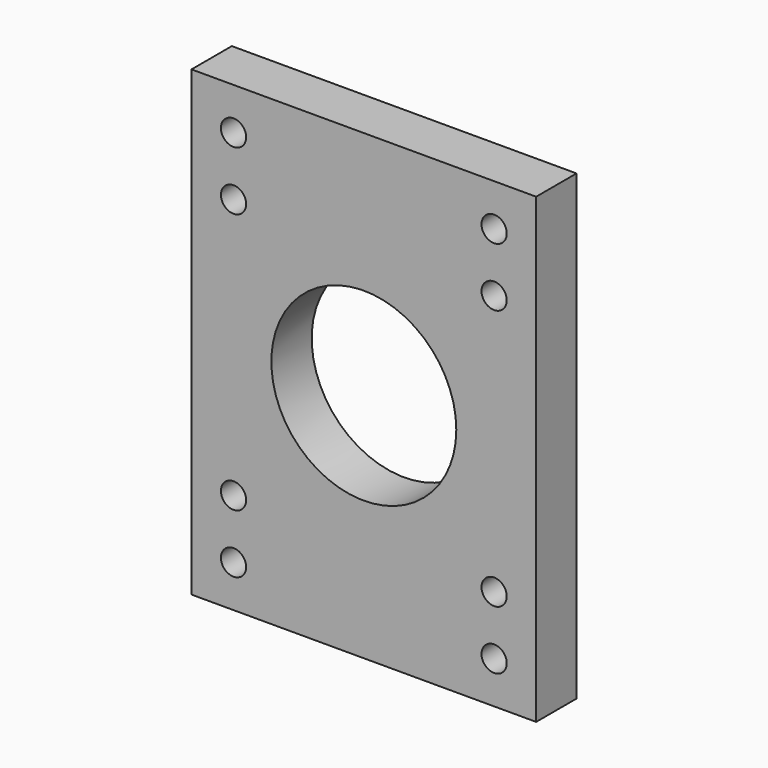
from build123d import *

# Parameters (mm, degrees)
F0_W     = 41
F0_H     = 55
F0_R     = 1.5
F0_R_2   = 11
F1_DEPTH = 6


with BuildPart() as f1:
    # F0 (on Front) → F1 (new body)
    with BuildSketch(Plane.XZ):
        Rectangle(F0_W, F0_H)
        with Locations((-15.5, -22.5)):
            Circle(F0_R, mode=Mode.SUBTRACT)
        with Locations((-15.5, -15.5)):
            Circle(F0_R, mode=Mode.SUBTRACT)
        with Locations((15.5, -22.5)):
            Circle(F0_R, mode=Mode.SUBTRACT)
        with Locations((15.5, -15.5)):
            Circle(F0_R, mode=Mode.SUBTRACT)
        with Locations((-15.5, 15.5)):
            Circle(F0_R, mode=Mode.SUBTRACT)
        with Locations((-15.5, 22.5)):
            Circle(F0_R, mode=Mode.SUBTRACT)
        Circle(F0_R_2, mode=Mode.SUBTRACT)
        with Locations((15.5, 15.5)):
            Circle(F0_R, mode=Mode.SUBTRACT)
        with Locations((15.5, 22.5)):
            Circle(F0_R, mode=Mode.SUBTRACT)
    extrude(amount=F1_DEPTH)


solid = f1.part
